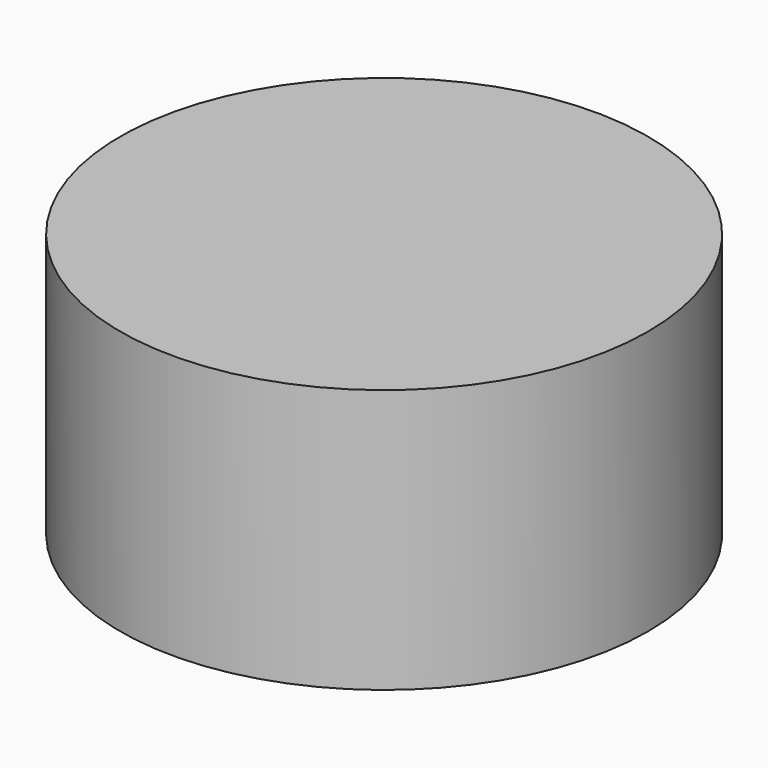
from build123d import *

# Parameters (mm, degrees)
CYLINDER_R     = 10
CYLINDER_DEPTH = 10


with BuildPart() as part:
    # Cylinder → Cylinder (new body)
    with BuildSketch(Plane.XY):
        Circle(CYLINDER_R)
    extrude(amount=CYLINDER_DEPTH)


solid = part.part
